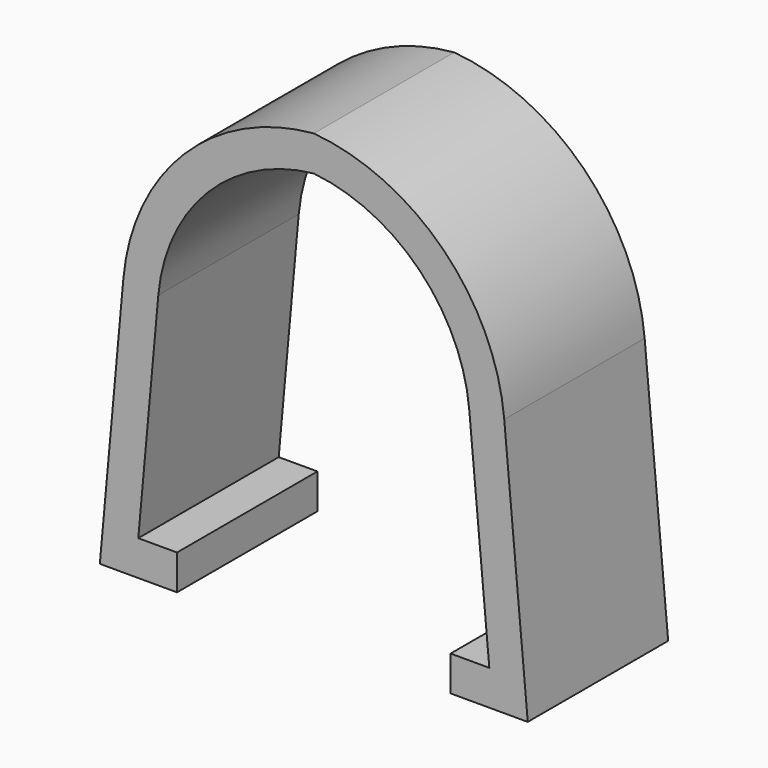
from build123d import *

# Parameters (mm, degrees)
F1_DEPTH = 25
F2_DEPTH = 15


with BuildPart() as f1:
    # F0 (on Front) → F1 (new body)
    with BuildSketch(Plane.XZ):
        with BuildLine():
            Line((-25, 0), (-22.145875, 31.39537))
            ThreePointArc((-22.145875, 31.39537), (-15.09429, 46.592178), (0, 53.860619))
            ThreePointArc((0, 53.860619), (15.09429, 46.592178), (22.145875, 31.39537))
            Line((22.145875, 31.39537), (25, 0))
            Line((25, 0), (19.482659, 0))
            Line((19.482659, 0), (19.482659, -5))
            Line((19.482659, -5), (30.475164, -5))
            Line((30.475164, -5), (27.125341, 31.848049))
            ThreePointArc((27.125341, 31.848049), (18.46946, 50.288919), (0, 58.883631))
            ThreePointArc((0, 58.883631), (-18.46946, 50.288919), (-27.125341, 31.848049))
            Line((-27.125341, 31.848049), (-30.475164, -5))
            Line((-30.475164, -5), (-19.482659, -5))
            Line((-19.482659, -5), (-19.482659, 0))
            Line((-19.482659, 0), (-25, 0))
        make_face()
    extrude(amount=F1_DEPTH)

    # F0 (on Front) → F2 (join)
    with BuildSketch(Plane.XZ):
        with BuildLine():
            Line((-25, 0), (-22.145875, 31.39537))
            ThreePointArc((-22.145875, 31.39537), (-15.09429, 46.592178), (0, 53.860619))
            ThreePointArc((0, 53.860619), (15.09429, 46.592178), (22.145875, 31.39537))
            Line((22.145875, 31.39537), (25, 0))
            Line((25, 0), (19.482659, 0))
            Line((19.482659, 0), (19.482659, -5))
            Line((19.482659, -5), (30.475164, -5))
            Line((30.475164, -5), (27.125341, 31.848049))
            ThreePointArc((27.125341, 31.848049), (18.46946, 50.288919), (0, 58.883631))
            ThreePointArc((0, 58.883631), (-18.46946, 50.288919), (-27.125341, 31.848049))
            Line((-27.125341, 31.848049), (-30.475164, -5))
            Line((-30.475164, -5), (-19.482659, -5))
            Line((-19.482659, -5), (-19.482659, 0))
            Line((-19.482659, 0), (-25, 0))
        make_face()
    extrude(amount=F2_DEPTH)


solid = f1.part
